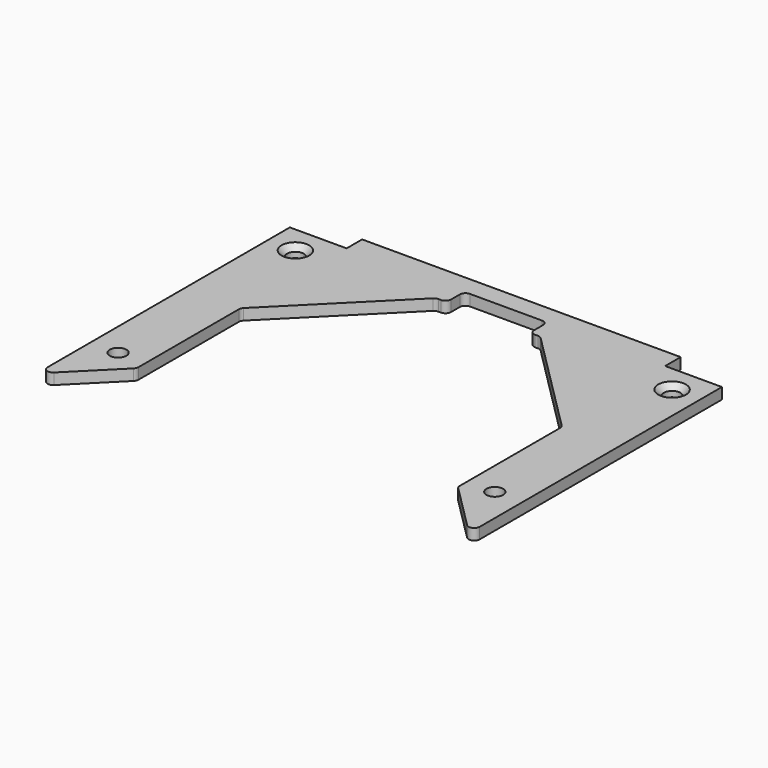
from build123d import *

# Parameters (mm, degrees)
SKETCH_R     = 3
PAD_DEPTH    = 4
CHAMFER_SIZE = 2


with BuildPart() as part:
    # Sketch → Pad (new body)
    with BuildSketch(Plane.XY):
        with BuildLine():
            Line((-78, -10), (-78, -119.313708))
            ThreePointArc((-78, -119.313708), (-76.765367, -121.161468), (-74.585786, -120.727922))
            Line((-74.585786, -120.727922), (-58.585786, -104.727922))
            ThreePointArc((-58.585786, -104.727922), (-58.152241, -104.079075), (-58, -103.313708))
            Line((-58, -58), (-58, -103.313708))
            ThreePointArc((-57.414214, -56.585786), (-57.847759, -57.234633), (-58, -58))
            Line((-57.414214, -56.585786), (-19.414214, -18.585786))
            ThreePointArc((-18, -18), (-18.765367, -18.152241), (-19.414214, -18.585786))
            Line((-18, -18), (-17, -18))
            ThreePointArc((-17, -18), (-15.585786, -17.414214), (-15, -16))
            Line((-15, -16), (-15, -12))
            ThreePointArc((-13, -10), (-14.414214, -10.585786), (-15, -12))
            Line((-13, -10), (13, -10))
            ThreePointArc((15, -12), (14.414214, -10.585786), (13, -10))
            Line((15, -16), (15, -12))
            ThreePointArc((15, -16), (15.585786, -17.414214), (17, -18))
            Line((17, -18), (18, -18))
            ThreePointArc((19.414214, -18.585786), (18.765367, -18.152241), (18, -18))
            Line((19.414214, -18.585786), (57.414214, -56.585786))
            ThreePointArc((58, -58), (57.847759, -57.234633), (57.414214, -56.585786))
            Line((58, -58), (58, -103.313708))
            ThreePointArc((58, -103.313708), (58.152241, -104.079075), (58.585786, -104.727922))
            Line((58.585786, -104.727922), (74.585786, -120.727922))
            ThreePointArc((74.585786, -120.727922), (76.765367, -121.161468), (78, -119.313708))
            Line((78, -119.313708), (78, -10))
            Line((57.5, -10), (78, -10))
            Line((57.5, -3), (57.5, -10))
            Line((57.5, -3), (-57.5, -3))
            Line((-57.5, -10), (-57.5, -3))
            Line((-78, -10), (-57.5, -10))
        make_face()
        with Locations((-68, -20)):
            Circle(SKETCH_R, mode=Mode.SUBTRACT)
        with Locations((-68, -100)):
            Circle(SKETCH_R, mode=Mode.SUBTRACT)
        with Locations((68, -20)):
            Circle(SKETCH_R, mode=Mode.SUBTRACT)
        with Locations((68, -100)):
            Circle(SKETCH_R, mode=Mode.SUBTRACT)
    extrude(amount=PAD_DEPTH)

    # Chamfer
    chamfer_edges = [part.edges().sort_by_distance(p)[0] for p in [
        (-71, -20, 4),
        (65, -20, 4),
    ]]
    chamfer(chamfer_edges, length=CHAMFER_SIZE)


solid = part.part
